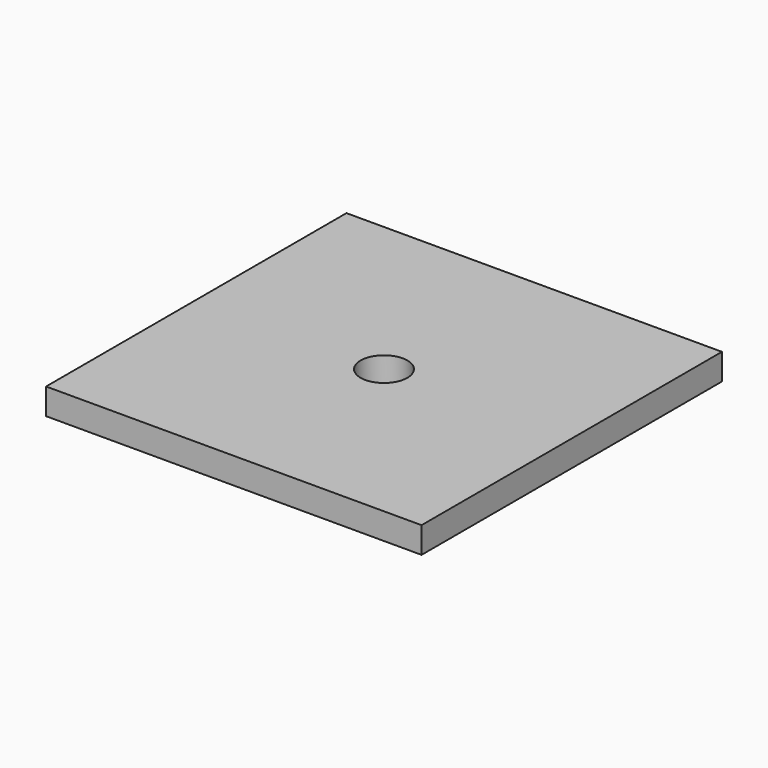
from build123d import *

# Parameters (mm, degrees)
SKETCH_W    = 25.4
SKETCH_H    = 25.4
PAD_DEPTH   = 1.77
SKETCH001_R = 1.585
HOLE_DEPTH  = 1.771


with BuildPart() as part:
    # Sketch → Pad (new body)
    with BuildSketch(Plane.XY):
        Rectangle(SKETCH_W, SKETCH_H)
    extrude(amount=PAD_DEPTH)

    # Sketch001 (on Face6 of Pad) → Hole (cut, through all)
    with BuildSketch(Plane.XY.offset(1.77)):
        Circle(SKETCH001_R)
    extrude(amount=-HOLE_DEPTH, mode=Mode.SUBTRACT)


solid = part.part
